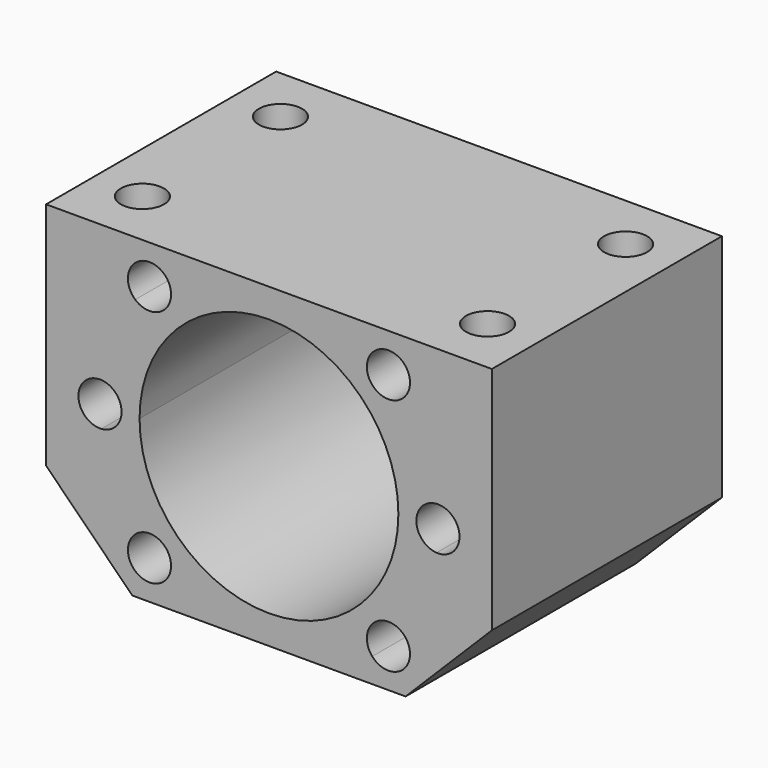
from build123d import *

# Parameters (mm, degrees)
F1_DEPTH = 40
F2_R     = 3
F3_DEPTH = 16


with BuildPart() as f1:
    # F0 (on Front) → F1 (new body)
    with BuildSketch(Plane.XZ):
        with BuildLine():
            Line((0, 12), (12, 0))
            Line((12, 0), (22.738644, 0))
            ThreePointArc((22.738644, 0), (19.559896, 1.472603), (16.635389, 3.4014))
            ThreePointArc((16.635389, 3.4014), (12.26167, 3.26167), (12.4014, 7.635389))
            ThreePointArc((12.4014, 7.635389), (9.288831, 13.006939), (7.691489, 19.006118))
            ThreePointArc((7.691489, 19.006118), (4.5, 22), (7.691489, 24.993882))
            ThreePointArc((7.691489, 24.993882), (9.288831, 30.993061), (12.4014, 36.364611))
            ThreePointArc((12.4014, 36.364611), (11.38452, 38.521216), (12.26167, 40.73833))
            ThreePointArc((12.26167, 40.73833), (14.478784, 41.61548), (16.635389, 40.5986))
            ThreePointArc((16.635389, 40.5986), (19.559896, 42.527397), (22.738644, 44))
            Line((22.738644, 44), (0, 44))
            Line((0, 44), (0, 12))
        make_face()
        with BuildLine():
            ThreePointArc((12.4014, 36.364611), (9.288831, 30.993061), (7.691489, 24.993882))
            ThreePointArc((7.691489, 24.993882), (9.687975, 24.052502), (10.5, 22))
            Line((10.5, 22), (13, 22))
            ThreePointArc((13, 22), (14.370168, 28.888302), (18.272078, 34.727922))
            Line((18.272078, 34.727922), (16.504311, 36.495689))
            ThreePointArc((16.504311, 36.495689), (14.478784, 35.618539), (12.4014, 36.364611))
        make_face()
        with BuildLine():
            ThreePointArc((16.635389, 3.4014), (19.559896, 1.472603), (22.738644, 0))
            Line((22.738644, 0), (39.261356, 0))
            ThreePointArc((39.261356, 0), (42.440104, 1.472603), (45.364611, 3.4014))
            ThreePointArc((45.364611, 3.4014), (45.495689, 7.504311), (49.5986, 7.635389))
            ThreePointArc((49.5986, 7.635389), (52.711169, 13.006939), (54.308511, 19.006118))
            ThreePointArc((54.308511, 19.006118), (51.5, 22), (54.308511, 24.993882))
            ThreePointArc((54.308511, 24.993882), (52.711169, 30.993061), (49.5986, 36.364611))
            ThreePointArc((49.5986, 36.364611), (45.495689, 36.495689), (45.364611, 40.5986))
            ThreePointArc((45.364611, 40.5986), (42.440104, 42.527397), (39.261356, 44))
            Line((39.261356, 44), (22.738644, 44))
            ThreePointArc((22.738644, 44), (19.559896, 42.527397), (16.635389, 40.5986))
            ThreePointArc((16.635389, 40.5986), (17.189874, 39.675973), (17.382991, 38.617009))
            ThreePointArc((17.382991, 38.617009), (17.154629, 37.468959), (16.504311, 36.495689))
            Line((16.504311, 36.495689), (18.272078, 34.727922))
            ThreePointArc((18.272078, 34.727922), (37.888302, 38.629832), (49, 22))
            ThreePointArc((49, 22), (31, 4), (13, 22))
            Line((13, 22), (10.5, 22))
            ThreePointArc((10.5, 22), (9.687975, 19.947498), (7.691489, 19.006118))
            ThreePointArc((7.691489, 19.006118), (9.288831, 13.006939), (12.4014, 7.635389))
            ThreePointArc((12.4014, 7.635389), (15.618957, 8.116557), (17.382991, 5.382991))
            ThreePointArc((17.382991, 5.382991), (17.189874, 4.324027), (16.635389, 3.4014))
        make_face()
        with BuildLine():
            ThreePointArc((45.364611, 3.4014), (42.440104, 1.472603), (39.261356, 0))
            Line((39.261356, 0), (50, 0))
            Line((50, 0), (62, 12))
            Line((62, 12), (62, 44))
            Line((62, 44), (39.261356, 44))
            ThreePointArc((39.261356, 44), (42.440104, 42.527397), (45.364611, 40.5986))
            ThreePointArc((45.364611, 40.5986), (48.675973, 41.423893), (50.617009, 38.617009))
            ThreePointArc((50.617009, 38.617009), (50.350576, 37.381043), (49.5986, 36.364611))
            ThreePointArc((49.5986, 36.364611), (52.711169, 30.993061), (54.308511, 24.993882))
            ThreePointArc((54.308511, 24.993882), (56.552502, 24.187975), (57.5, 22))
            ThreePointArc((57.5, 22), (56.552502, 19.812025), (54.308511, 19.006118))
            ThreePointArc((54.308511, 19.006118), (52.711169, 13.006939), (49.5986, 7.635389))
            ThreePointArc((49.5986, 7.635389), (50.350576, 6.618957), (50.617009, 5.382991))
            ThreePointArc((50.617009, 5.382991), (48.675973, 2.576107), (45.364611, 3.4014))
        make_face()
    extrude(amount=F1_DEPTH)

    # F2 (on face) → F3 (cut)
    with BuildSketch(Plane.XY.offset(44)):
        with Locations((7, -8)):
            Circle(F2_R)
        with Locations((7, -32)):
            Circle(F2_R)
        with Locations((55, -32)):
            Circle(F2_R)
        with Locations((55, -8)):
            Circle(F2_R)
    extrude(amount=-F3_DEPTH, mode=Mode.SUBTRACT)


solid = f1.part
